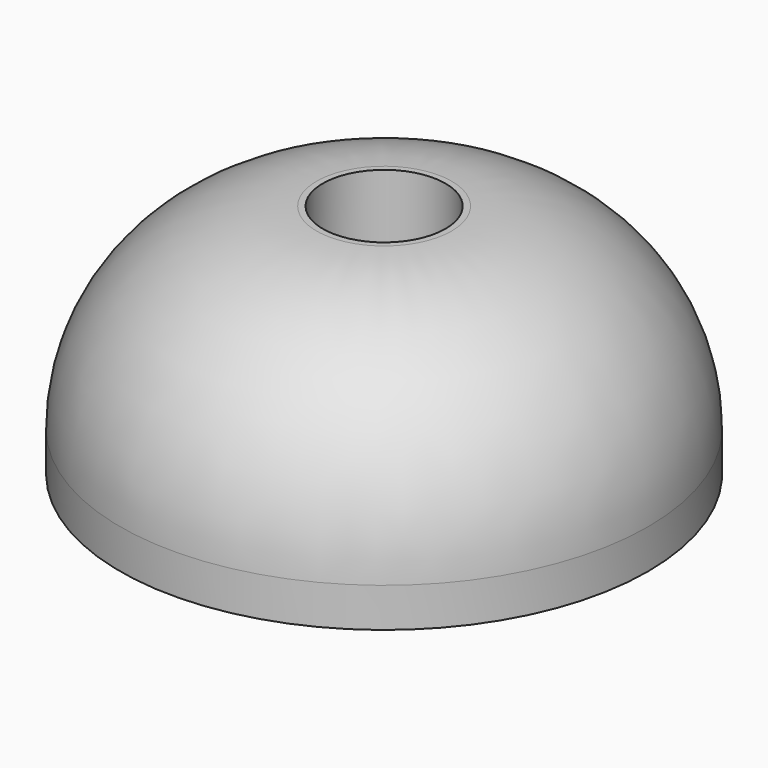
from build123d import *

# Parameters (mm, degrees)
F0_R          = 10.75
F0_R_2        = 4.1
F0_R_3        = 2.5
F1_DEPTH      = 9.6
F2_R          = 8
F3_DEPTH      = 25
F4_DEPTH      = 6.1
F4_DEPTH_BACK = 13.5


with BuildPart() as f1:
    # F0 (on Top) → F1 (new body)
    with BuildSketch(Plane.XY):
        Circle(F0_R)
        Circle(F0_R_2, mode=Mode.SUBTRACT)
        Circle(F0_R_2)
        Circle(F0_R_3, mode=Mode.SUBTRACT)
    extrude(amount=F1_DEPTH)

    # F2
    f2_edges = [f1.edges().sort_by_distance(p)[0] for p in [
        (-10.75, 0, 9.6),
    ]]
    fillet(f2_edges, radius=F2_R)

    # F0 (on Top) → F3 (cut)
    with BuildSketch(Plane.XY):
        Circle(F0_R_3)
    extrude(amount=-F3_DEPTH, mode=Mode.SUBTRACT)

    # F0 (on Top) → F4 (cut, two sides)
    with BuildSketch(Plane.XY) as f4_sk:
        Circle(F0_R_2)
        Circle(F0_R_3, mode=Mode.SUBTRACT)
    extrude(amount=F4_DEPTH, mode=Mode.SUBTRACT)
    extrude(f4_sk.sketch, amount=-F4_DEPTH_BACK, mode=Mode.SUBTRACT)


solid = f1.part
